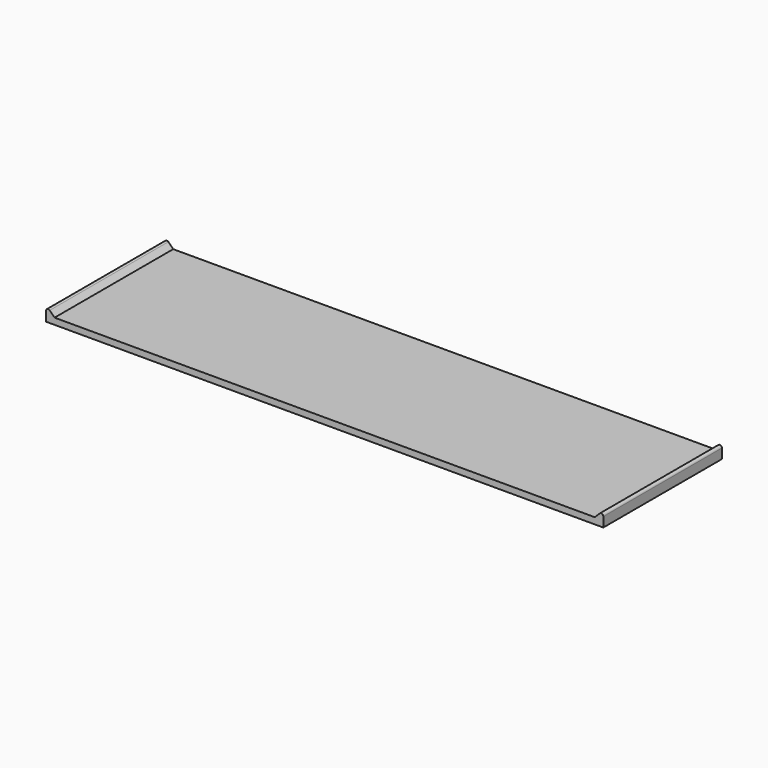
from build123d import *

# Parameters (mm, degrees)
F1_DEPTH = 17.5
F2_R     = 0.5


with BuildPart() as f1:
    # F0 (on Front) → F1 (new body, symmetric)
    with BuildSketch(Plane.XZ):
        Polygon((-65.75, 1.5), (-65.75, 0), (65.75, 0), (65.75, 1.5), (63.75, 1.5), (-63.75, 1.5), align=None)
        Polygon((-65.75, 3.5), (-65.75, 1.5), (-63.75, 1.5), align=None)
        Polygon((63.75, 1.5), (65.75, 1.5), (65.75, 3.5), align=None)
    extrude(amount=F1_DEPTH, both=True)

    # F2
    f2_edges = [f1.edges().sort_by_distance(p)[0] for p in [
        (-65.75, 0, 3.5),
        (65.75, 0, 3.5),
    ]]
    fillet(f2_edges, radius=F2_R)


solid = f1.part
